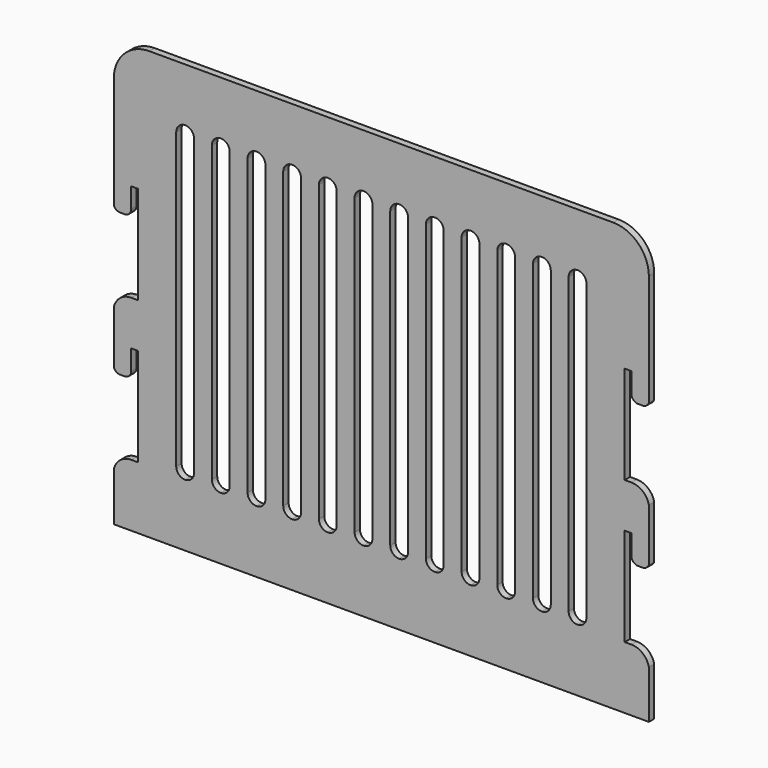
from build123d import *

# Parameters (mm, degrees)
F1_DEPTH = 19.05
F3_DEPTH = 19.051
F5_DEPTH = 19.051


with BuildPart() as f1:
    # F0 (on Front) → F1 (new body)
    with BuildSketch(Plane.XZ):
        with BuildLine():
            Line((660.4, 304.8), (-660.4, 304.8))
            ThreePointArc((-660.4, 304.8), (-732.242049, 275.042049), (-762, 203.2))
            Line((-762, 203.2), (-762, -914.4))
            Line((-762, -914.4), (762, -914.4))
            Line((762, -914.4), (762, 203.2))
            ThreePointArc((762, 203.2), (732.242049, 275.042049), (660.4, 304.8))
        make_face()
    extrude(amount=F1_DEPTH)

    # F2 (on face) → F3 (cut, through all)
    with BuildSketch(Plane.XZ.offset(19.05)):
        with BuildLine():
            Line((-731.379947, -127), (-744.079947, -127))
            ThreePointArc((-744.079947, -127), (-757.550331, -121.420384), (-763.129947, -107.95))
            Line((-763.129947, -107.95), (-763.129947, -50.8))
            Line((-763.129947, -50.8), (-839.329947, -50.8))
            Line((-839.329947, -50.8), (-839.329947, -431.8))
            Line((-839.329947, -431.8), (-763.129947, -431.8))
            Line((-763.129947, -431.8), (-763.129947, -381))
            ThreePointArc((-763.129947, -381), (-748.250971, -345.078976), (-712.329947, -330.2))
            Line((-712.329947, -330.2), (-693.279947, -330.2))
            Line((-693.279947, -330.2), (-693.279947, -50.8))
            Line((-693.279947, -50.8), (-712.329947, -50.8))
            Line((-712.329947, -50.8), (-712.329947, -107.95))
            ThreePointArc((-712.329947, -107.95), (-717.909562, -121.420384), (-731.379947, -127))
        make_face()
        with BuildLine():
            Line((-712.329947, -457.2), (-712.329947, -514.35))
            ThreePointArc((-712.329947, -514.35), (-717.909562, -527.820384), (-731.379947, -533.4))
            Line((-731.379947, -533.4), (-744.079947, -533.4))
            ThreePointArc((-744.079947, -533.4), (-757.550331, -527.820384), (-763.129947, -514.35))
            Line((-763.129947, -514.35), (-763.129947, -457.2))
            Line((-763.129947, -457.2), (-839.329947, -457.2))
            Line((-839.329947, -457.2), (-839.329947, -838.2))
            Line((-839.329947, -838.2), (-763.129947, -838.2))
            Line((-763.129947, -838.2), (-763.129947, -787.4))
            ThreePointArc((-763.129947, -787.4), (-748.250971, -751.478976), (-712.329947, -736.6))
            Line((-712.329947, -736.6), (-693.279947, -736.6))
            Line((-693.279947, -736.6), (-693.279947, -457.2))
            Line((-693.279947, -457.2), (-712.329947, -457.2))
        make_face()
        with BuildLine():
            ThreePointArc((763.129947, -107.95), (757.550331, -121.420384), (744.079947, -127))
            Line((744.079947, -127), (731.379947, -127))
            ThreePointArc((731.379947, -127), (717.909562, -121.420384), (712.329947, -107.95))
            Line((712.329947, -107.95), (712.329947, -50.8))
            Line((712.329947, -50.8), (693.279947, -50.8))
            Line((693.279947, -50.8), (693.279947, -330.2))
            Line((693.279947, -330.2), (712.329947, -330.2))
            ThreePointArc((712.329947, -330.2), (748.250971, -345.078976), (763.129947, -381))
            Line((763.129947, -381), (763.129947, -431.8))
            Line((763.129947, -431.8), (839.329947, -431.8))
            Line((839.329947, -431.8), (839.329947, -50.8))
            Line((839.329947, -50.8), (763.129947, -50.8))
            Line((763.129947, -50.8), (763.129947, -107.95))
        make_face()
        with BuildLine():
            Line((693.279947, -457.2), (693.279947, -736.6))
            Line((693.279947, -736.6), (712.329947, -736.6))
            ThreePointArc((712.329947, -736.6), (748.250971, -751.478976), (763.129947, -787.4))
            Line((763.129947, -787.4), (763.129947, -838.2))
            Line((763.129947, -838.2), (839.329947, -838.2))
            Line((839.329947, -838.2), (839.329947, -457.2))
            Line((839.329947, -457.2), (763.129947, -457.2))
            Line((763.129947, -457.2), (763.129947, -514.35))
            ThreePointArc((763.129947, -514.35), (757.550331, -527.820384), (744.079947, -533.4))
            Line((744.079947, -533.4), (731.379947, -533.4))
            ThreePointArc((731.379947, -533.4), (717.909562, -527.820384), (712.329947, -514.35))
            Line((712.329947, -514.35), (712.329947, -457.2))
            Line((712.329947, -457.2), (693.279947, -457.2))
        make_face()
    extrude(amount=-F3_DEPTH, mode=Mode.SUBTRACT)

    # F4 (on face) → F5 (cut, through all)
    with BuildSketch(Plane.XZ.offset(19.05)):
        with BuildLine():
            ThreePointArc((-50.8, 152.346021), (-68.760512, 144.906534), (-76.2, 126.946021))
            Line((-76.2, 126.946021), (-76.2, -711.253979))
            ThreePointArc((-76.2, -711.253979), (-68.760512, -729.214491), (-50.8, -736.653979))
            ThreePointArc((-50.8, -736.653979), (-32.839488, -729.214491), (-25.4, -711.253979))
            Line((-25.4, -711.253979), (-25.4, 126.946021))
            ThreePointArc((-25.4, 126.946021), (-32.839488, 144.906534), (-50.8, 152.346021))
        make_face()
        with BuildLine():
            ThreePointArc((-152.4, 152.346021), (-170.360512, 144.906534), (-177.8, 126.946021))
            Line((-177.8, 126.946021), (-177.8, -711.253979))
            ThreePointArc((-177.8, -711.253979), (-170.360512, -729.214491), (-152.4, -736.653979))
            ThreePointArc((-152.4, -736.653979), (-134.439488, -729.214491), (-127, -711.253979))
            Line((-127, -711.253979), (-127, 126.946021))
            ThreePointArc((-127, 126.946021), (-134.439488, 144.906534), (-152.4, 152.346021))
        make_face()
        with BuildLine():
            ThreePointArc((-254, 152.346021), (-271.960512, 144.906534), (-279.4, 126.946021))
            Line((-279.4, 126.946021), (-279.4, -711.253979))
            ThreePointArc((-279.4, -711.253979), (-271.960512, -729.214491), (-254, -736.653979))
            ThreePointArc((-254, -736.653979), (-236.039488, -729.214491), (-228.6, -711.253979))
            Line((-228.6, -711.253979), (-228.6, 126.946021))
            ThreePointArc((-228.6, 126.946021), (-236.039488, 144.906534), (-254, 152.346021))
        make_face()
        with BuildLine():
            ThreePointArc((-355.6, 152.346021), (-373.560512, 144.906534), (-381, 126.946021))
            Line((-381, 126.946021), (-381, -711.253979))
            ThreePointArc((-381, -711.253979), (-373.560512, -729.214491), (-355.6, -736.653979))
            ThreePointArc((-355.6, -736.653979), (-337.639488, -729.214491), (-330.2, -711.253979))
            Line((-330.2, -711.253979), (-330.2, 126.946021))
            ThreePointArc((-330.2, 126.946021), (-337.639488, 144.906534), (-355.6, 152.346021))
        make_face()
        with BuildLine():
            ThreePointArc((-457.2, 152.346021), (-475.160512, 144.906534), (-482.6, 126.946021))
            Line((-482.6, 126.946021), (-482.6, -711.253979))
            ThreePointArc((-482.6, -711.253979), (-475.160512, -729.214491), (-457.2, -736.653979))
            ThreePointArc((-457.2, -736.653979), (-439.239488, -729.214491), (-431.8, -711.253979))
            Line((-431.8, -711.253979), (-431.8, 126.946021))
            ThreePointArc((-431.8, 126.946021), (-439.239488, 144.906534), (-457.2, 152.346021))
        make_face()
        with BuildLine():
            ThreePointArc((-558.8, 152.346021), (-576.760512, 144.906534), (-584.2, 126.946021))
            Line((-584.2, 126.946021), (-584.2, -711.253979))
            ThreePointArc((-584.2, -711.253979), (-576.760512, -729.214491), (-558.8, -736.653979))
            ThreePointArc((-558.8, -736.653979), (-540.839488, -729.214491), (-533.4, -711.253979))
            Line((-533.4, -711.253979), (-533.4, 126.946021))
            ThreePointArc((-533.4, 126.946021), (-540.839488, 144.906534), (-558.8, 152.346021))
        make_face()
        with BuildLine():
            ThreePointArc((127, -711.253979), (134.439488, -729.214491), (152.4, -736.653979))
            ThreePointArc((152.4, -736.653979), (170.360512, -729.214491), (177.8, -711.253979))
            Line((177.8, -711.253979), (177.8, 126.946021))
            ThreePointArc((177.8, 126.946021), (170.360512, 144.906534), (152.4, 152.346021))
            ThreePointArc((152.4, 152.346021), (134.439488, 144.906534), (127, 126.946021))
            Line((127, 126.946021), (127, -711.253979))
        make_face()
        with BuildLine():
            ThreePointArc((482.6, 126.946021), (475.160512, 144.906534), (457.2, 152.346021))
            ThreePointArc((457.2, 152.346021), (439.239488, 144.906534), (431.8, 126.946021))
            Line((431.8, 126.946021), (431.8, -711.253979))
            ThreePointArc((431.8, -711.253979), (439.239488, -729.214491), (457.2, -736.653979))
            ThreePointArc((457.2, -736.653979), (475.160512, -729.214491), (482.6, -711.253979))
            Line((482.6, -711.253979), (482.6, 126.946021))
        make_face()
        with BuildLine():
            ThreePointArc((254, -736.653979), (271.960512, -729.214491), (279.4, -711.253979))
            Line((279.4, -711.253979), (279.4, 126.946021))
            ThreePointArc((279.4, 126.946021), (271.960512, 144.906534), (254, 152.346021))
            ThreePointArc((254, 152.346021), (236.039488, 144.906534), (228.6, 126.946021))
            Line((228.6, 126.946021), (228.6, -711.253979))
            ThreePointArc((228.6, -711.253979), (236.039488, -729.214491), (254, -736.653979))
        make_face()
        with BuildLine():
            ThreePointArc((558.8, 152.346021), (540.839488, 144.906534), (533.4, 126.946021))
            Line((533.4, 126.946021), (533.4, -711.253979))
            ThreePointArc((533.4, -711.253979), (540.839488, -729.214491), (558.8, -736.653979))
            ThreePointArc((558.8, -736.653979), (576.760512, -729.214491), (584.2, -711.253979))
            Line((584.2, -711.253979), (584.2, 126.946021))
            ThreePointArc((584.2, 126.946021), (576.760512, 144.906534), (558.8, 152.346021))
        make_face()
        with BuildLine():
            ThreePointArc((355.6, 152.346021), (337.639488, 144.906534), (330.2, 126.946021))
            Line((330.2, 126.946021), (330.2, -711.253979))
            ThreePointArc((330.2, -711.253979), (337.639488, -729.214491), (355.6, -736.653979))
            ThreePointArc((355.6, -736.653979), (373.560512, -729.214491), (381, -711.253979))
            Line((381, -711.253979), (381, 126.946021))
            ThreePointArc((381, 126.946021), (373.560512, 144.906534), (355.6, 152.346021))
        make_face()
        with BuildLine():
            ThreePointArc((25.4, -711.253979), (32.839488, -729.214491), (50.8, -736.653979))
            ThreePointArc((50.8, -736.653979), (68.760512, -729.214491), (76.2, -711.253979))
            Line((76.2, -711.253979), (76.2, 126.946021))
            ThreePointArc((76.2, 126.946021), (68.760512, 144.906534), (50.8, 152.346021))
            ThreePointArc((50.8, 152.346021), (32.839488, 144.906534), (25.4, 126.946021))
            Line((25.4, 126.946021), (25.4, -711.253979))
        make_face()
    extrude(amount=-F5_DEPTH, mode=Mode.SUBTRACT)


solid = f1.part
